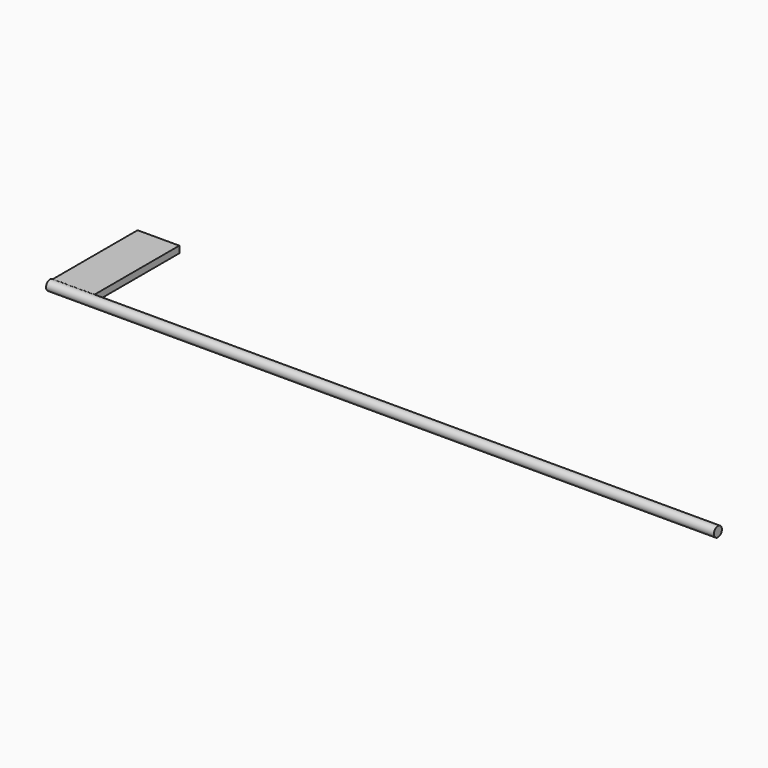
from build123d import *

# Parameters (mm, degrees)
F1_DEPTH = 800
F2_DEPTH = 50


with BuildPart() as f1:
    # F0 (on Right) → F1 (new body)
    with BuildSketch(Plane.YZ):
        with BuildLine():
            Line((0, -9.774977), (0, -1.666799))
            ThreePointArc((0, -1.666799), (-9.953242, -6.7454), (0.802263, -9.774977))
            Line((0.802263, -9.774977), (0, -9.774977))
        make_face()
        with BuildLine():
            ThreePointArc((0.802263, -9.774977), (1.705658, -8.06407), (2.017601, -6.154616))
            ThreePointArc((2.017601, -6.154616), (1.490004, -3.694371), (0, -1.666799))
            Line((0, -1.666799), (0, -9.774977))
            Line((0, -9.774977), (0.802263, -9.774977))
        make_face()
    extrude(amount=F1_DEPTH)

    # F0 (on Right) → F2 (join)
    with BuildSketch(Plane.YZ):
        with BuildLine():
            ThreePointArc((0, -1.666799), (1.490004, -3.694371), (2.017601, -6.154616))
            ThreePointArc((2.017601, -6.154616), (1.705658, -8.06407), (0.802263, -9.774977))
            Line((0.802263, -9.774977), (127, -9.774977))
            Line((127, -9.774977), (127, -1.666799))
            Line((127, -1.666799), (0, -1.666799))
        make_face()
    extrude(amount=F2_DEPTH)


solid = f1.part
